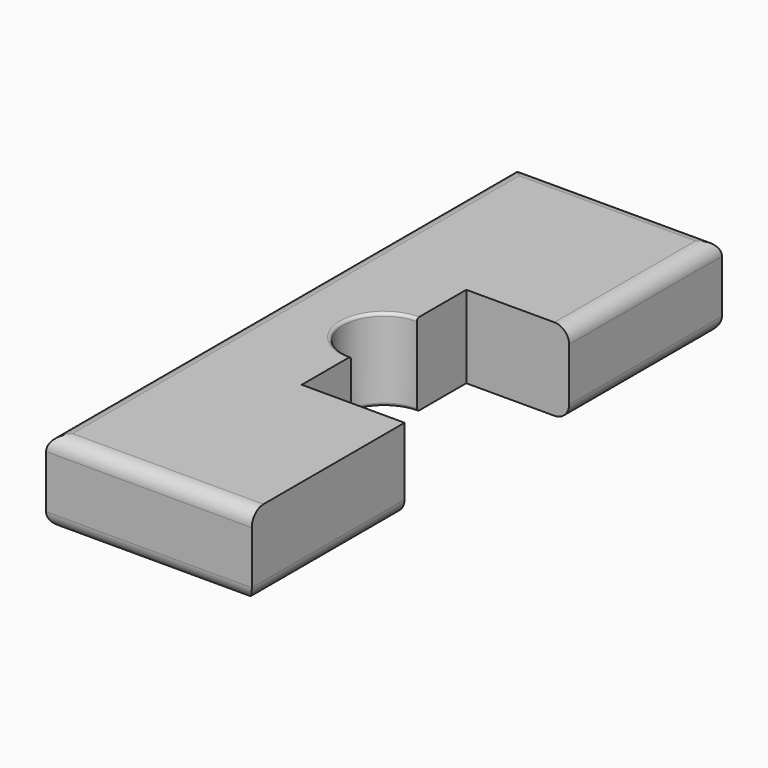
from build123d import *

# Parameters (mm, degrees)
F0_W     = 70
F0_H     = 28
F1_DEPTH = 100
F2_W     = 70
F2_H     = 70
F3_DEPTH = 28.001
F4_R     = 14
F5_DEPTH = 28.001
F6_R     = 5
F7_R     = 1


with BuildPart() as f1:
    # F0 (on Front) → F1 (new body, symmetric)
    with BuildSketch(Plane.XZ):
        Rectangle(F0_W, F0_H)
    extrude(amount=F1_DEPTH, both=True)

    # F2 (on face) → F3 (cut, through all)
    with BuildSketch(Plane.XY.offset(14)):
        with Locations((35, 0)):
            Rectangle(F2_W, F2_H)
    extrude(amount=-F3_DEPTH, mode=Mode.SUBTRACT)

    # F4 (on face) → F5 (cut, through all)
    with BuildSketch(Plane.XY.offset(14)):
        Circle(F4_R)
    extrude(amount=-F5_DEPTH, mode=Mode.SUBTRACT)

    # F6
    f6_edges = [f1.edges().sort_by_distance(p)[0] for p in [
        (-35, 0, 14),
        (35, 67.5, 14),
        (0, 100, 14),
        (0, -100, 14),
        (35, 67.5, -14),
        (-35, 0, -14),
        (35, -67.5, -14),
        (0, -100, -14),
        (0, 100, -14),
    ]]
    fillet(f6_edges, radius=F6_R)

    # F7
    f7_edges = [f1.edges().sort_by_distance(p)[0] for p in [
        (-14, 0, 14),
        (-14, 0, -14),
    ]]
    fillet(f7_edges, radius=F7_R)


solid = f1.part
